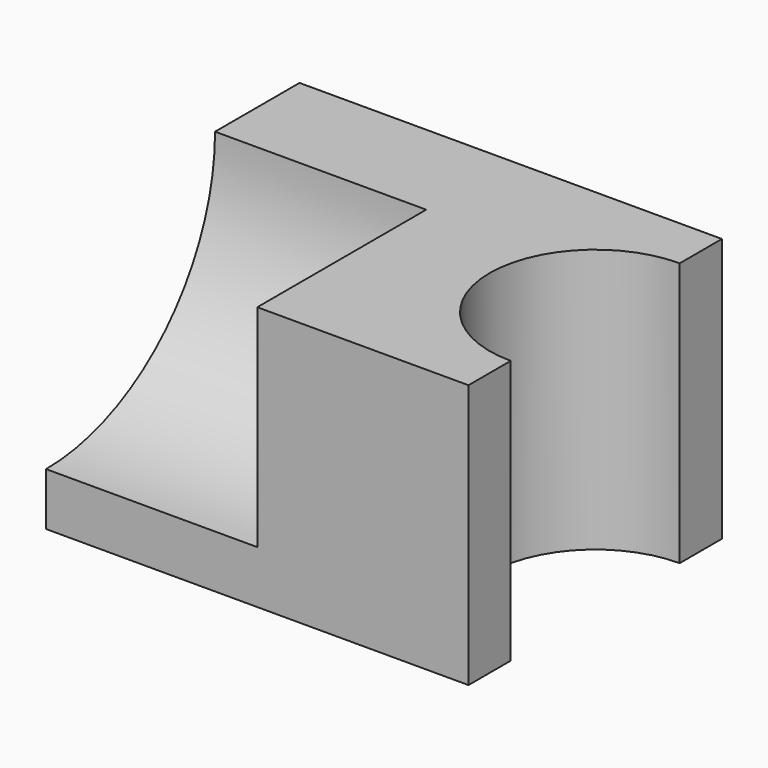
from build123d import *

# Parameters (mm, degrees)
F0_W     = 101.6
F0_H     = 63.5
F1_DEPTH = 76.2
F3_DEPTH = 63.501
F5_DEPTH = 50.8


with BuildPart() as f1:
    # F0 (on Front) → F1 (new body)
    with BuildSketch(Plane.XZ):
        with Locations((13.030546, -10.511411)):
            Rectangle(F0_W, F0_H)
    extrude(amount=-F1_DEPTH)

    # F2 (on face) → F3 (cut, through all)
    with BuildSketch(Plane.XY.offset(21.238589)):
        with BuildLine():
            Line((63.830546, 12.7), (63.830546, 63.5))
            ThreePointArc((63.830546, 63.5), (38.430546, 38.1), (63.830546, 12.7))
        make_face()
    extrude(amount=-F3_DEPTH, mode=Mode.SUBTRACT)

    # F4 (on face) → F5 (cut)
    with BuildSketch(Plane(origin=(-37.769454, 0, 0), x_dir=(0, -1, 0), z_dir=(-1, 0, 0))):
        with BuildLine():
            Line((0, 21.238589), (-50.8, 21.238589))
            ThreePointArc((-50.8, 21.238589), (-35.921024, -14.682436), (0, -29.561411))
            Line((0, -29.561411), (0, 21.238589))
        make_face()
    extrude(amount=-F5_DEPTH, mode=Mode.SUBTRACT)


solid = f1.part
